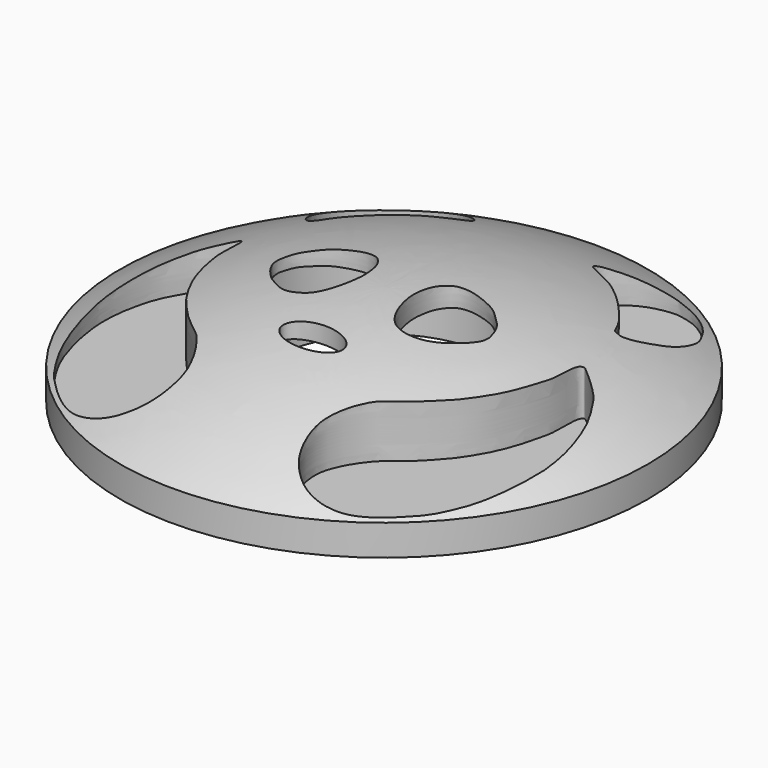
from build123d import *

# Parameters (mm, degrees)
SKETCH003_R           = 13
EXTRUDE002_DEPTH      = 9
EXTRUDE002_DEPTH_BACK = 6
SKETCH_R              = 30
EXTRUDE001_DEPTH      = 10
SKETCH001_R           = 30
EXTRUDE_DEPTH         = 3


with BuildPart() as stem:
    # Sketch003 → Extrude002 (new body, two sides)
    with BuildSketch(Plane.XY) as extrude002_sk:
        Circle(SKETCH003_R)
    extrude(amount=EXTRUDE002_DEPTH)
    extrude(extrude002_sk.sketch, amount=-EXTRUDE002_DEPTH_BACK)


with BuildPart() as dome:
    # Sketch002 (on Sketch) → Revolve (revolve)
    with BuildSketch(Plane.YZ):
        with BuildLine():
            ThreePointArc((30, 3.5), (15.524175, 9.465655), (0, 11.5))
            Line((0, 11.5), (0, 3.5))
            Line((0, 3.5), (0, 3))
            Line((0, 3), (30, 3))
            Line((30, 3), (30, 3.5))
        make_face()
    revolve(axis=Axis((0, 0, 0), (0, 0, 1)))


with BuildPart() as common:
    # Sketch → Extrude001 (new body)
    with BuildSketch(Plane.XY):
        Circle(SKETCH_R)
        with BuildLine():
            add(Edge.make_bspline(
                [(3.528123, -10.109215), (3.528123, -6.931257), (-1.764061, -8.520236), (-7.056245, -10.109215), (-1.764061, -11.698194), (3.528123, -13.287173), (3.528123, -10.109215)],
                knots=[0, 0, 0, 2.094395, 2.094395, 4.18879, 4.18879, 6.283185, 6.283185, 6.283185], degree=2, weights=[1, 0.5, 1, 0.5, 1, 0.5, 1]))
        make_face(mode=Mode.SUBTRACT)
        with BuildLine():
            add(Edge.make_bspline(
                [(6.92182, 21.1321), (6.997146, 21.5464), (7.26054, 22.072987), (8.032219, 22.709), (9.10613, 23.6177), (10.000564, 24.0649), (10.921294, 24.4551), (12.570911, 24.7852), (13.570174, 24.8236), (14.5461, 24.6055), (15.517463, 24.3679), (16.418472, 23.9341), (17.504423, 23.2034), (18.2278, 22.512947), (18.8693, 21.745824), (19.5381, 20.680166), (20.041973, 19.816388), (20.355994, 18.866972), (20.517275, 17.6673), (20.5173, 16.6673), (20.4192, 15.672123), (20.1225, 14.717153), (19.6841, 13.818373), (19.222105, 12.93149), (18.521239, 11.9429), (17.716204, 11.349674), (17.6268, 11.495711), (17.0148, 11.491), (16.827729, 11.8086), (16.111, 13.2987), (15.2071, 14.4285), (14.3409, 15.4454), (13.2488, 16.6128), (12.2696, 17.5543), (11.2151, 18.4205), (10.418951, 19.0256), (9.531288, 19.486094), (8.630474, 19.9203), (7.97632, 20.2659), (7.375778, 20.620853), (7.102164, 20.751545), (6.92182, 21.1321)],
                knots=[0, 0, 0, 0, 0.025641, 0.051282, 0.076923, 0.102564, 0.128205, 0.153846, 0.179487, 0.205128, 0.230769, 0.25641, 0.282051, 0.307692, 0.333333, 0.358974, 0.384615, 0.410256, 0.435897, 0.461538, 0.487179, 0.512821, 0.538462, 0.564103, 0.589744, 0.615385, 0.641026, 0.666667, 0.692308, 0.717949, 0.74359, 0.769231, 0.794872, 0.820513, 0.846154, 0.871795, 0.897436, 0.923077, 0.948718, 0.974359, 1, 1, 1, 1], degree=3))
        make_face(mode=Mode.SUBTRACT)
        with BuildLine():
            add(Edge.make_bspline(
                [(-6.92182, 21.1321), (-6.997146, 21.5464), (-7.26054, 22.072987), (-8.032219, 22.709), (-9.10613, 23.6177), (-10.000564, 24.0649), (-10.921294, 24.4551), (-12.570911, 24.7852), (-13.570174, 24.8236), (-14.5461, 24.6055), (-15.517463, 24.3679), (-16.418472, 23.9341), (-17.504423, 23.2034), (-18.2278, 22.512947), (-18.8693, 21.745824), (-19.5381, 20.680166), (-20.041973, 19.816388), (-20.355994, 18.866972), (-20.517275, 17.6673), (-20.5173, 16.6673), (-20.4192, 15.672123), (-20.1225, 14.717153), (-19.6841, 13.818373), (-19.222105, 12.93149), (-18.521239, 11.9429), (-17.716204, 11.349674), (-17.6268, 11.495711), (-17.0148, 11.491), (-16.827729, 11.8086), (-16.111, 13.2987), (-15.2071, 14.4285), (-14.3409, 15.4454), (-13.2488, 16.6128), (-12.2696, 17.5543), (-11.2151, 18.4205), (-10.418951, 19.0256), (-9.531288, 19.486094), (-8.630474, 19.9203), (-7.97632, 20.2659), (-7.375778, 20.620853), (-7.102164, 20.751545), (-6.92182, 21.1321)],
                knots=[0, 0, 0, 0, 0.025641, 0.051282, 0.076923, 0.102564, 0.128205, 0.153846, 0.179487, 0.205128, 0.230769, 0.25641, 0.282051, 0.307692, 0.333333, 0.358974, 0.384615, 0.410256, 0.435897, 0.461538, 0.487179, 0.512821, 0.538462, 0.564103, 0.589744, 0.615385, 0.641026, 0.666667, 0.692308, 0.717949, 0.74359, 0.769231, 0.794872, 0.820513, 0.846154, 0.871795, 0.897436, 0.923077, 0.948718, 0.974359, 1, 1, 1, 1], degree=3))
        make_face(mode=Mode.SUBTRACT)
        with BuildLine():
            add(Edge.make_bspline(
                [(11.9884, 0), (11.6664, 1.378116), (11.121452, 2.216586), (10.388438, 2.8968), (9.32051, 3.90807), (7.98655, 4.41405), (6.79058, 4.73604), (5.798303, 4.86008), (4.807798, 4.7226), (4.16866, 4.36805), (3.55084, 3.581731), (3.20269, 2.896096), (2.969317, 1.923709), (2.834663, 0.688183), (2.972883, -0.553918), (3.341224, -2.117934), (3.878756, -3.352151), (4.70917, -4.42191), (5.616235, -4.842901), (6.599359, -5.02584), (7.588421, -4.878343), (8.556685, -4.628413), (9.933489, -3.705023), (10.562816, -2.927883), (11.233964, -2.186559), (11.737369, -1.322509), (11.986344, -0.740876), (11.9884, 0)],
                knots=[0, 0, 0, 0, 0.04, 0.08, 0.12, 0.16, 0.2, 0.24, 0.28, 0.32, 0.36, 0.4, 0.44, 0.48, 0.52, 0.56, 0.6, 0.64, 0.68, 0.72, 0.76, 0.8, 0.84, 0.88, 0.92, 0.96, 1, 1, 1, 1], degree=3))
        make_face(mode=Mode.SUBTRACT)
        with BuildLine():
            add(Edge.make_bspline(
                [(-11.9884, 0), (-11.6664, 1.378116), (-11.121452, 2.216586), (-10.388438, 2.8968), (-9.32051, 3.90807), (-7.98655, 4.41405), (-6.79058, 4.73604), (-5.798303, 4.86008), (-4.807798, 4.7226), (-4.16866, 4.36805), (-3.55084, 3.58173), (-3.20269, 2.896097), (-2.969315, 1.92371), (-2.8347, 0.688162), (-2.9727, -0.553801), (-3.34068, -2.11776), (-3.89267, -3.35972), (-4.628649, -4.37169), (-5.513565, -4.83744), (-6.486557, -5.06828), (-7.486537, -5.061924), (-8.379907, -4.612602), (-9.87249, -3.681708), (-10.5564, -2.952142), (-11.215172, -2.199799), (-11.727762, -1.341165), (-11.9884, -0.737796), (-11.9884, 0)],
                knots=[0, 0, 0, 0, 0.04, 0.08, 0.12, 0.16, 0.2, 0.24, 0.28, 0.32, 0.36, 0.4, 0.44, 0.48, 0.52, 0.56, 0.6, 0.64, 0.68, 0.72, 0.76, 0.8, 0.84, 0.88, 0.92, 0.96, 1, 1, 1, 1], degree=3))
        make_face(mode=Mode.SUBTRACT)
        with BuildLine():
            add(Edge.make_bspline(
                [(19.6457, 4.02636), (20.472629, 3.464053), (21.6793, 2.48228), (22.6585, 1.54077), (23.2987, 0.448613), (24.0896, -0.944827), (24.6545, -2.37593), (25.2194, -4.5979), (25.483, -6.59391), (25.5207, -8.77822), (25.3493, -10.0134), (25.0733, -11.8533), (24.5213, -14.0153), (23.8314, -16.0392), (23.0954, -17.5572), (21.7614, -19.7651), (20.5655, -21.1451), (18.1735, -23.399), (15.8736, -24.8249), (14.2176, -25.2389), (12.8377, -25.3309), (11.3657, -25.0549), (10.2158, -24.503), (8.92779, -23.399), (8.19181, -22.203), (7.73183, -20.7771), (7.59383, -19.1211), (7.82382, -17.8791), (8.4678, -16.3152), (9.34178, -14.9352), (10.3078, -13.6933), (11.6417, -12.7733), (13.2517, -11.3473), (14.3096, -10.1514), (15.3676, -9.0014), (16.4716, -7.25345), (17.2995, -5.73549), (17.8975, -4.21754), (18.2942, -2.98422), (18.6665, -1.52893), (19.0049, -0.090567), (19.036137, 0.908945), (19.0726, 2.14313), (19.0557, 2.95539), (19.1403, 3.54766), (19.2249, 3.81841), (19.411, 4.03839), (19.5126, 4.05532), (19.6457, 4.02636)],
                knots=[0, 0, 0, 0, 0.021739, 0.043478, 0.065217, 0.086957, 0.108696, 0.130435, 0.152174, 0.173913, 0.195652, 0.217391, 0.23913, 0.26087, 0.282609, 0.304348, 0.326087, 0.347826, 0.369565, 0.391304, 0.413043, 0.434783, 0.456522, 0.478261, 0.5, 0.521739, 0.543478, 0.565217, 0.586957, 0.608696, 0.630435, 0.652174, 0.673913, 0.695652, 0.717391, 0.73913, 0.76087, 0.782609, 0.804348, 0.826087, 0.847826, 0.869565, 0.891304, 0.913043, 0.934783, 0.956522, 0.978261, 1, 1, 1, 1], degree=3))
        make_face(mode=Mode.SUBTRACT)
        with BuildLine():
            add(Edge.make_bspline(
                [(-19.6457, 4.02636), (-20.472629, 3.464053), (-21.6793, 2.48228), (-22.6585, 1.54077), (-23.2987, 0.448613), (-24.0896, -0.944827), (-24.6545, -2.37593), (-25.2194, -4.5979), (-25.483, -6.59391), (-25.5207, -8.77822), (-25.3493, -10.0134), (-25.0733, -11.8533), (-24.5213, -14.0153), (-23.8314, -16.0392), (-23.0954, -17.5572), (-21.7614, -19.7651), (-20.5655, -21.1451), (-18.1735, -23.399), (-15.8736, -24.8249), (-14.2176, -25.2389), (-12.8377, -25.3309), (-11.3657, -25.0549), (-10.2158, -24.503), (-8.92779, -23.399), (-8.19181, -22.203), (-7.73183, -20.7771), (-7.59383, -19.1211), (-7.82382, -17.8791), (-8.4678, -16.3152), (-9.34178, -14.9352), (-10.3078, -13.6933), (-11.6417, -12.7733), (-13.2517, -11.3473), (-14.3096, -10.1514), (-15.3676, -9.0014), (-16.4716, -7.25345), (-17.2995, -5.73549), (-17.8975, -4.21754), (-18.2942, -2.98422), (-18.6665, -1.52893), (-19.0049, -0.090567), (-19.036137, 0.908945), (-19.0726, 2.14313), (-19.0557, 2.95539), (-19.1403, 3.54766), (-19.2249, 3.81841), (-19.411, 4.03839), (-19.5126, 4.05532), (-19.6457, 4.02636)],
                knots=[0, 0, 0, 0, 0.021739, 0.043478, 0.065217, 0.086957, 0.108696, 0.130435, 0.152174, 0.173913, 0.195652, 0.217391, 0.23913, 0.26087, 0.282609, 0.304348, 0.326087, 0.347826, 0.369565, 0.391304, 0.413043, 0.434783, 0.456522, 0.478261, 0.5, 0.521739, 0.543478, 0.565217, 0.586957, 0.608696, 0.630435, 0.652174, 0.673913, 0.695652, 0.717391, 0.73913, 0.76087, 0.782609, 0.804348, 0.826087, 0.847826, 0.869565, 0.891304, 0.913043, 0.934783, 0.956522, 0.978261, 1, 1, 1, 1], degree=3))
        make_face(mode=Mode.SUBTRACT)
    extrude(amount=EXTRUDE001_DEPTH)


with BuildPart() as common_1:
    # Extrude001 placement: moved
    add(common.part.moved(Location((0, 0, 3))))

    # Common: intersect Dome
    add(dome.part, mode=Mode.INTERSECT)


with BuildPart() as mushroom:
    # Sketch001 → Extrude (new body)
    with BuildSketch(Plane.XY):
        Circle(SKETCH001_R)
    extrude(amount=EXTRUDE_DEPTH)

    # Fusion: union Common
    add(common_1.part)

    # Cut: cut Stem
    add(stem.part, mode=Mode.SUBTRACT)


solid = mushroom.part
